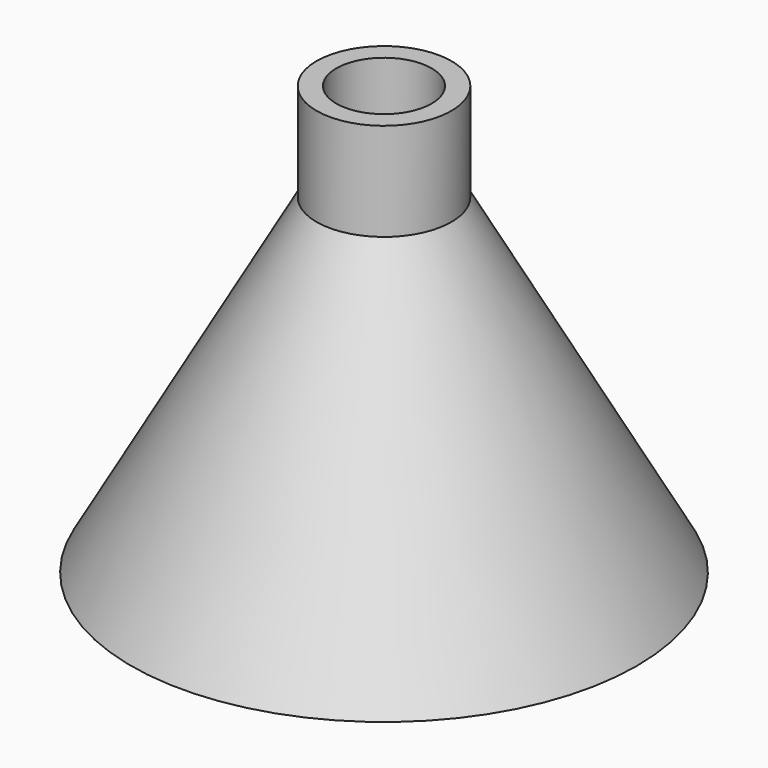
from build123d import *

# Parameters (mm, degrees)
F2_T     = -1.25
F3_R     = 2.8299175035
F4_DEPTH = 25


with BuildPart() as f1:
    # F0 (on Front) → F1 (revolve)
    with BuildSketch(Plane.XZ):
        Polygon((0, -12.4857185782), (0, 12.9142814218), (-4, 12.9142814218), (-4, 7.1125508785), (-15, -12.4857185782), align=None)
    revolve(axis=Axis((0, 0, 21.6972688213), (0, 0, -1)))

    # F2
    f2_openings = [f1.faces().sort_by_distance(p)[0] for p in [
        (0, 0, -12.485719),
    ]]
    offset(amount=F2_T, openings=f2_openings, kind=Kind.INTERSECTION)

    # F3 (on face) → F4 (cut)
    with BuildSketch(Plane.XY.offset(12.9142814218)):
        Circle(F3_R)
    extrude(amount=-F4_DEPTH, mode=Mode.SUBTRACT)


solid = f1.part
